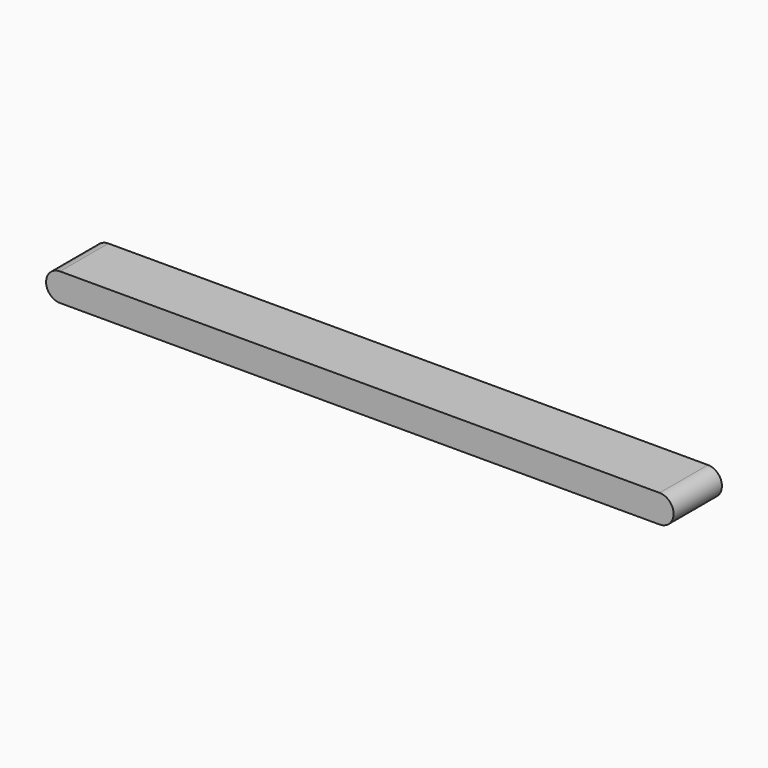
from build123d import *

# Parameters (mm, degrees)
PAD_DEPTH = 65


with BuildPart() as part:
    # Sketch → Pad (new body)
    with BuildSketch(Plane.XZ):
        with BuildLine():
            ThreePointArc((723.278824, -96.453331), (738.278824, -81.453328), (723.278819, -66.453331))
            Line((78.278829, -66.453331), (723.278819, -66.453331))
            ThreePointArc((78.278829, -66.453331), (63.278824, -81.453329), (78.278824, -96.453331))
            Line((723.278824, -96.453331), (78.278824, -96.453331))
        make_face()
    extrude(amount=PAD_DEPTH)


solid = part.part
